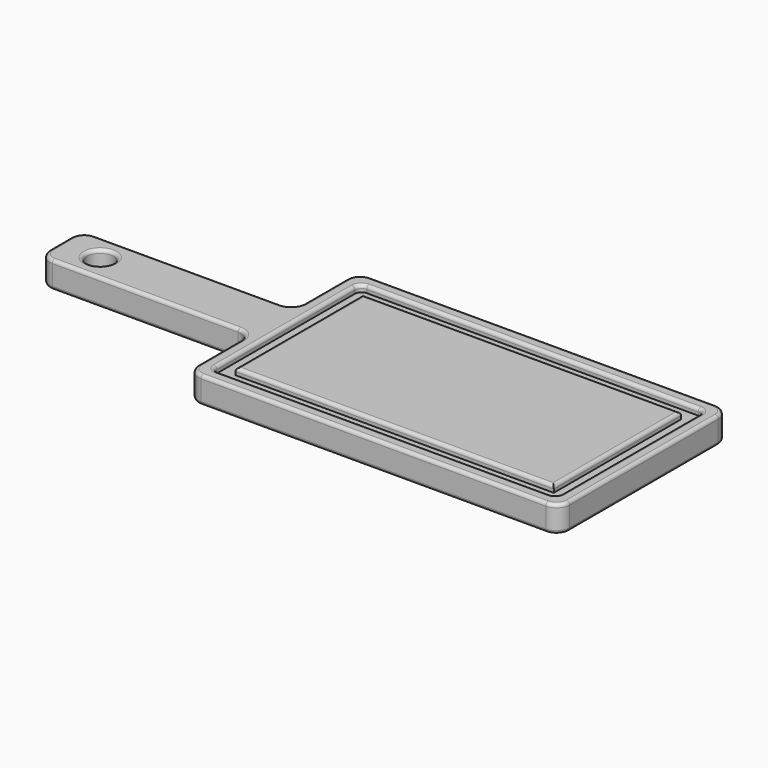
from build123d import *

# Parameters (mm, degrees)
F0_W     = 203.2
F0_H     = 50.8
F1_DEPTH = 25.4
F2_R     = 12.7
F3_DEPTH = 25.4
F5_DEPTH = 6.35
F6_R     = 6.35
F7_R     = 12.7
F8_R     = 3.175


with BuildPart() as f1:
    # F0 (on Top) → F1 (new body)
    with BuildSketch(Plane.XY):
        Polygon((0, 76.2), (0, 0), (355.6, 0), (355.6, 203.2), (0, 203.2), (0, 127), align=None)
        with Locations((-101.6, 101.6)):
            Rectangle(F0_W, F0_H)
    extrude(amount=F1_DEPTH)

    # F2 (on face) → F3 (cut)
    with BuildSketch(Plane.XY.offset(25.4)):
        with Locations((-165.1, 101.6)):
            Circle(F2_R)
    extrude(amount=-F3_DEPTH, mode=Mode.SUBTRACT)

    # F4 (on face) → F5 (cut)
    with BuildSketch(Plane.XY.offset(25.4)):
        Polygon((12.6999939203, 72.3010972142), (12.6999939203, 12.6999939203), (342.9000060797, 12.6999939203), (342.9000060797, 190.5000060797), (12.6999939203, 190.5000060797), (12.6999939203, 127), (12.6999939203, 76.2), align=None)
        Polygon((330.1999997139, 25.4000002861), (25.4000002861, 25.4000002861), (25.4000002861, 76.2), (25.4000002861, 127), (25.4000002861, 177.7999997139), (330.1999997139, 177.7999997139), align=None, mode=Mode.SUBTRACT)
    extrude(amount=-F5_DEPTH, mode=Mode.SUBTRACT)

    # F6
    f6_edges = [f1.edges().sort_by_distance(p)[0] for p in [
        (12.699994, 190.500006, 22.225),
        (342.900006, 190.500006, 22.225),
        (342.900006, 12.699994, 22.225),
        (12.699994, 12.699994, 22.225),
    ]]
    fillet(f6_edges, radius=F6_R)

    # F7
    f7_edges = [f1.edges().sort_by_distance(p)[0] for p in [
        (0, 0, 12.7),
        (-203.2, 76.2, 12.7),
        (-203.2, 127, 12.7),
        (0, 127, 12.7),
        (0, 203.2, 12.7),
        (355.6, 203.2, 12.7),
        (355.6, 0, 12.7),
        (0, 76.2, 12.7),
    ]]
    fillet(f7_edges, radius=F7_R)

    # F8
    f8_edges = [f1.edges().sort_by_distance(p)[0] for p in [
        (330.2, 101.6, 25.4),
        (177.8, 25.4, 25.4),
        (25.4, 101.6, 25.4),
        (177.8, 177.8, 25.4),
        (0, 38.1, 25.4),
        (-3.719744, 72.480256, 25.4),
        (3.719744, 3.719744, 25.4),
        (-101.6, 76.2, 25.4),
        (177.8, 0, 25.4),
        (-199.480256, 79.919744, 25.4),
        (351.880256, 3.719744, 25.4),
        (-203.2, 101.6, 25.4),
        (355.6, 101.6, 25.4),
        (-199.480256, 123.280256, 25.4),
        (351.880256, 199.480256, 25.4),
        (-101.6, 127, 25.4),
        (177.8, 203.2, 25.4),
        (-3.719744, 130.719744, 25.4),
        (3.719744, 199.480256, 25.4),
        (0, 165.1, 25.4),
        (177.8, 12.699994, 25.4),
        (14.559866, 14.559866, 25.4),
        (341.040134, 14.559866, 25.4),
        (12.699994, 101.6, 25.4),
        (342.900006, 101.6, 25.4),
        (14.559866, 188.640134, 25.4),
        (341.040134, 188.640134, 25.4),
        (177.8, 190.500006, 25.4),
        (-177.8, 101.6, 25.4),
        (0, 38.1, 0),
        (-3.719744, 72.480256, 0),
        (3.719744, 3.719744, 0),
        (-101.6, 76.2, 0),
        (177.8, 0, 0),
        (-199.480256, 79.919744, 0),
        (351.880256, 3.719744, 0),
        (-203.2, 101.6, 0),
        (355.6, 101.6, 0),
        (-199.480256, 123.280256, 0),
        (351.880256, 199.480256, 0),
        (-101.6, 127, 0),
        (177.8, 203.2, 0),
        (-3.719744, 130.719744, 0),
        (3.719744, 199.480256, 0),
        (0, 165.1, 0),
        (-177.8, 101.6, 0),
    ]]
    fillet(f8_edges, radius=F8_R)


solid = f1.part
